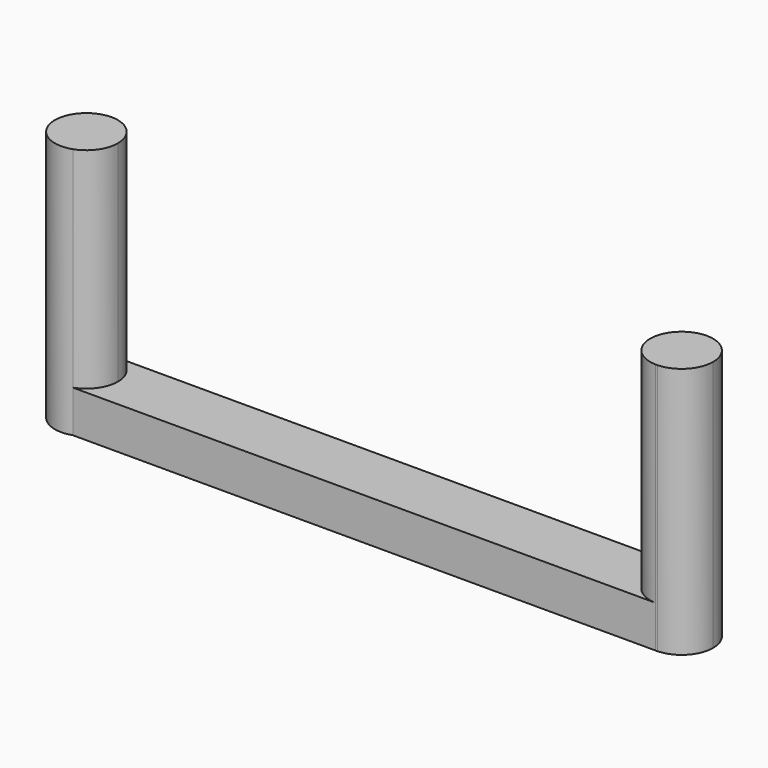
from build123d import *

# Parameters (mm, degrees)
F1_DEPTH = 12
F2_DEPTH = 2


with BuildPart() as f1:
    # F0 (on Top) → F1 (new body)
    with BuildSketch(Plane.XY):
        with BuildLine():
            ThreePointArc((0.485728788, -1.4191784752), (1.2203674, -0.8721831281), (1.5, 0))
            ThreePointArc((1.5, 0), (1.0606601718, 1.0606601718), (0, 1.5))
            Line((0, 1.5), (0, -1.4191784752))
            Line((0, -1.4191784752), (0.485728788, -1.4191784752))
        make_face()
        with BuildLine():
            Line((0, -1.4191784752), (0, 1.5))
            ThreePointArc((0, 1.5), (-1.4796566684, -0.2462034598), (0.485728788, -1.4191784752))
            Line((0.485728788, -1.4191784752), (0, -1.4191784752))
        make_face()
    extrude(amount=F1_DEPTH)


with BuildPart() as f1b:
    # F0 (on Top) → F1, piece 2 (new body)
    with BuildSketch(Plane.XY):
        with BuildLine():
            ThreePointArc((29.8, 0.0801584756), (29.1730175297, 1.2999291068), (27.8162128096, 1.5))
            Line((27.8162128096, 1.5), (28.3445949316, 1.5))
            Line((28.3445949316, 1.5), (28.3445949316, -1.4191784752))
            ThreePointArc((28.3445949316, -1.4191784752), (29.3763113856, -0.9646160461), (29.8, 0.0801584756))
        make_face()
        with BuildLine():
            Line((28.3445949316, 1.5), (27.8162128096, 1.5))
            ThreePointArc((27.8162128096, 1.5), (26.8166936732, -0.143005905), (28.2554050684, -1.4191784752))
            Line((28.2554050684, -1.4191784752), (28.3445949316, -1.4191784752))
            Line((28.3445949316, -1.4191784752), (28.3445949316, 1.5))
        make_face()
    extrude(amount=F1_DEPTH)


with BuildPart() as f2:
    # F0 (on Top) → F2 (new body)
    with BuildSketch(Plane.XY):
        with BuildLine():
            ThreePointArc((0, 1.5), (1.0606601718, 1.0606601718), (1.5, 0))
            ThreePointArc((1.5, 0), (1.2203674, -0.8721831281), (0.485728788, -1.4191784752))
            Line((0.485728788, -1.4191784752), (28.2554050684, -1.4191784752))
            ThreePointArc((28.2554050684, -1.4191784752), (26.8166936732, -0.143005905), (27.8162128096, 1.5))
            Line((27.8162128096, 1.5), (0, 1.5))
        make_face()
    extrude(amount=F2_DEPTH)


solid = Compound([f1.part, f1b.part, f2.part])
